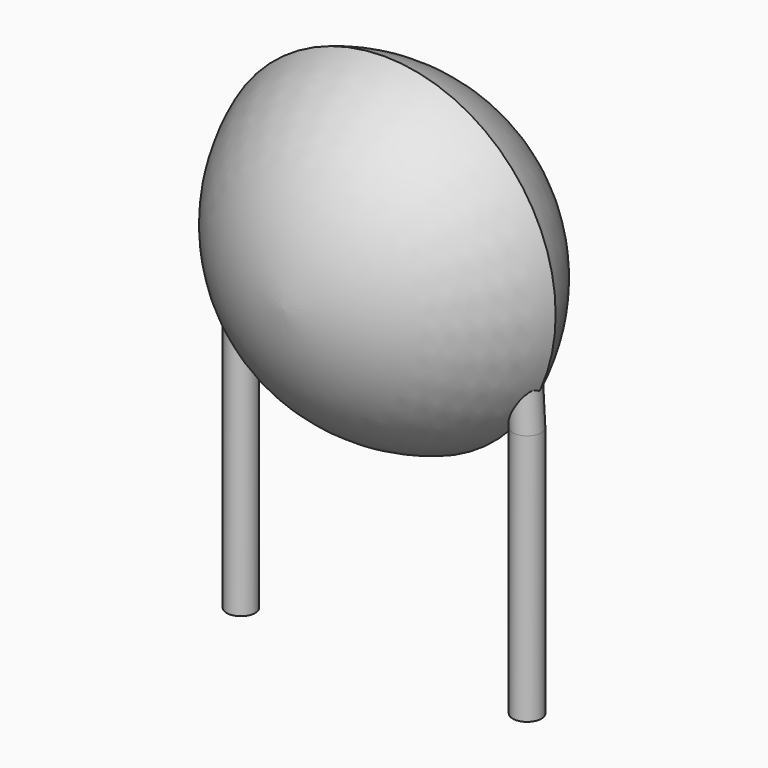
from build123d import *

# Parameters (mm, degrees)
SKETCH001_R       = 0.25
PAD001_DEPTH      = 1.2
PAD001_DEPTH_BACK = 3.2
SKETCH002_R       = 0.25
SKETCH003_R       = 0.25
SKETCH004_R       = 0.25
SKETCH005_R       = 0.25


with BuildPart() as pad001:
    # Sketch001 → Pad001 (new body, two sides)
    with BuildSketch(Plane.XY) as pad001_sk:
        Circle(SKETCH001_R)
        with Locations((5, 0)):
            Circle(SKETCH001_R)
    extrude(amount=PAD001_DEPTH)
    extrude(pad001_sk.sketch, amount=-PAD001_DEPTH_BACK)


with BuildPart() as revolution:
    # Sketch → Revolution (revolve)
    with BuildSketch(Plane.YZ.offset(2.5)):
        with BuildLine():
            Line((-2.2, 3.1), (2.2, 3.1))
            ThreePointArc((0, 0.1), (1.561131, 1.261838), (2.2, 3.1))
            ThreePointArc((-2.2, 3.1), (-1.561131, 1.261838), (0, 0.1))
        make_face()
    revolve(axis=Axis((2.5, -3.32079, 3.1), (0, 1, 0)))


with BuildPart() as loft_body:
    # Sketch002 → Loft section 0
    with BuildSketch(Plane.XY.offset(3)):
        with Locations((0.1, 0)):
            Circle(SKETCH002_R)
    # Sketch003 → Loft section 1
    with BuildSketch(Plane.XY.offset(1.2)):
        Circle(SKETCH003_R)
    loft()


with BuildPart() as loft001:
    # Sketch004 → Loft001 section 0
    with BuildSketch(Plane.XY.offset(1.2)):
        with Locations((5, 0)):
            Circle(SKETCH004_R)
    # Sketch005 → Loft001 section 1
    with BuildSketch(Plane.XY.offset(3)):
        with Locations((4.9, 0)):
            Circle(SKETCH005_R)
    loft()


solid = Compound([pad001.part, revolution.part, loft_body.part, loft001.part])
